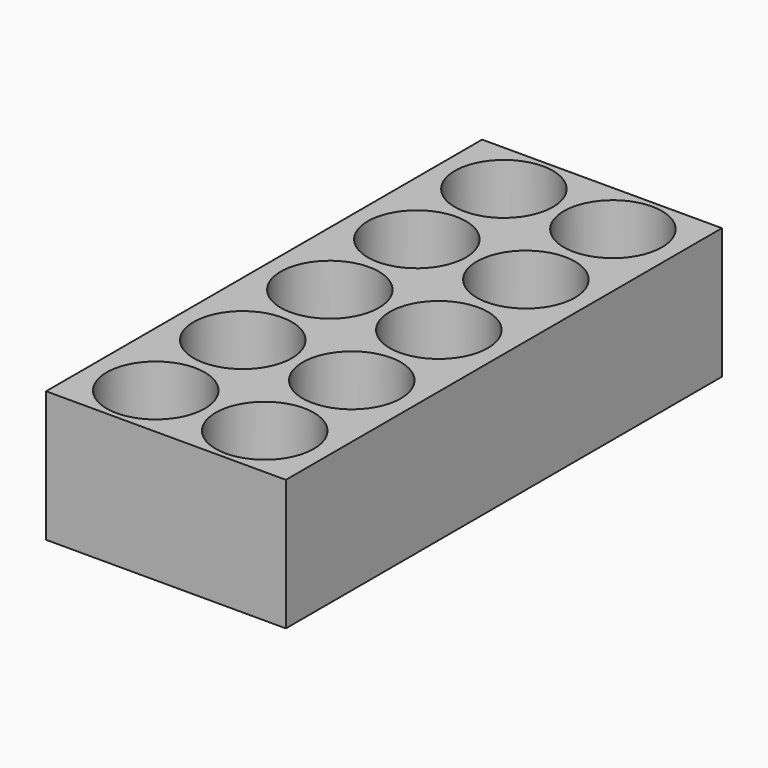
from build123d import *

# Parameters (mm, degrees)
F0_W     = 55
F0_H     = 125
F0_R     = 11.25
F1_DEPTH = 30


with BuildPart() as f1:
    # F0 (on Top) → F1 (new body)
    with BuildSketch(Plane.XY):
        with Locations((2.287214, -42.637954)):
            Rectangle(F0_W, F0_H)
        with Locations((-10.067432, -92.637848)):
            Circle(F0_R, mode=Mode.SUBTRACT)
        with Locations((-10.103771, -67.637874)):
            Circle(F0_R, mode=Mode.SUBTRACT)
        with Locations((14.932568, -92.637848)):
            Circle(F0_R, mode=Mode.SUBTRACT)
        with Locations((14.896229, -67.637874)):
            Circle(F0_R, mode=Mode.SUBTRACT)
        with Locations((-10.140109, -42.637901)):
            Circle(F0_R, mode=Mode.SUBTRACT)
        with Locations((-10.176447, -17.637927)):
            Circle(F0_R, mode=Mode.SUBTRACT)
        with Locations((-10.212786, 7.362046)):
            Circle(F0_R, mode=Mode.SUBTRACT)
        with Locations((14.859891, -42.637901)):
            Circle(F0_R, mode=Mode.SUBTRACT)
        with Locations((14.823553, -17.637927)):
            Circle(F0_R, mode=Mode.SUBTRACT)
        with Locations((14.787214, 7.362046)):
            Circle(F0_R, mode=Mode.SUBTRACT)
    extrude(amount=F1_DEPTH)


solid = f1.part
